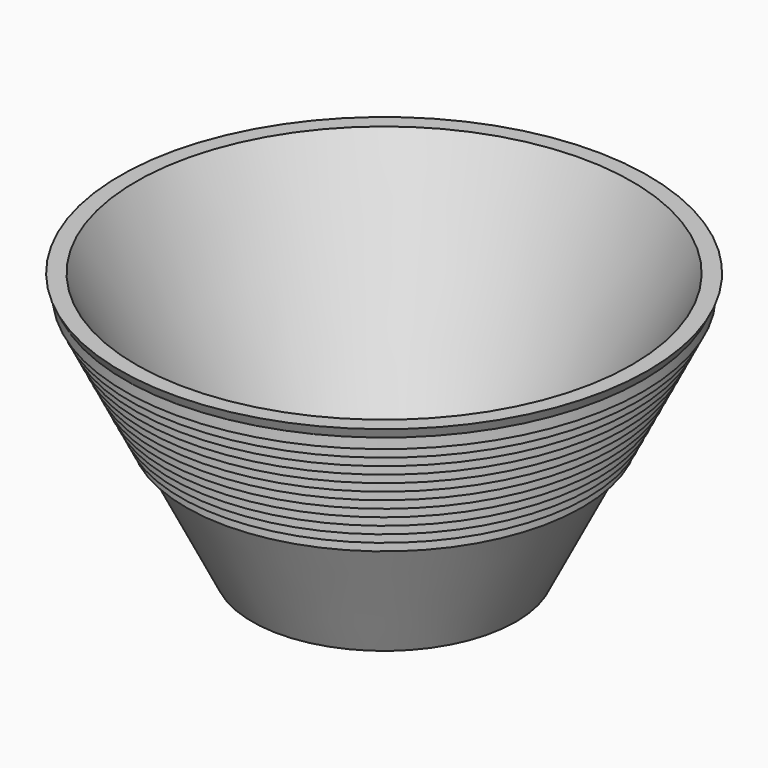
from build123d import *


with BuildPart() as f1:
    # F0 (on Front) → F1 (revolve)
    with BuildSketch(Plane.XZ):
        Polygon((47.879802, 43.009125), (47.879802, 44.959605), (46.904562, 43.009125), align=None)
        Polygon((48.856395, 44.959605), (48.856395, 46.912789), (47.879802, 44.959605), align=None)
        Polygon((49.833796, 46.912789), (49.833796, 48.867593), (48.856395, 46.912789), align=None)
        Polygon((46.904562, 41.058641), (46.904562, 43.009125), (45.92932, 41.058641), align=None)
        Polygon((45.92932, 39.108161), (45.92932, 41.058641), (44.95408, 39.108161), align=None)
        Polygon((44.95408, 39.108161), (43.978839, 37.157677), (44.95408, 37.157677), align=None)
        Polygon((43.978839, 37.157677), (43.003599, 35.207197), (43.978839, 35.207197), align=None)
        Polygon((43.003599, 35.207197), (42.023151, 33.246301), (43.003599, 33.246301), align=None)
        Polygon((42.023151, 33.246301), (41.047909, 31.295817), (42.023151, 31.295817), align=None)
        Polygon((41.047909, 31.295817), (40.072669, 29.345337), (41.047909, 29.345337), align=None)
        Polygon((40.072669, 29.345337), (39.097427, 27.394854), (40.072669, 27.394854), align=None)
        Polygon((39.097427, 27.394854), (38.122186, 25.444372), (39.097427, 25.444372), align=None)
        Polygon((38.122186, 25.444372), (37.146945, 23.49389), (38.122186, 23.49389), align=None)
        Polygon((0, 3.0734), (0, 0), (25.4, 0), (37.146945, 23.49389), (38.122186, 25.444372), (39.097427, 27.394854), (40.072669, 29.345337), (41.047909, 31.295817), (42.023151, 33.246301), (43.003599, 35.207197), (43.978839, 37.157677), (44.95408, 39.108161), (45.92932, 41.058641), (46.904562, 43.009125), (47.879802, 44.959605), (48.856395, 46.912789), (49.833796, 48.867593), (50.8, 50.8), (47.7266, 50.8), (23.8633, 3.0734), align=None)
    revolve(axis=Axis((0, 0, 25.4), (0, 0, 1)))


solid = f1.part
